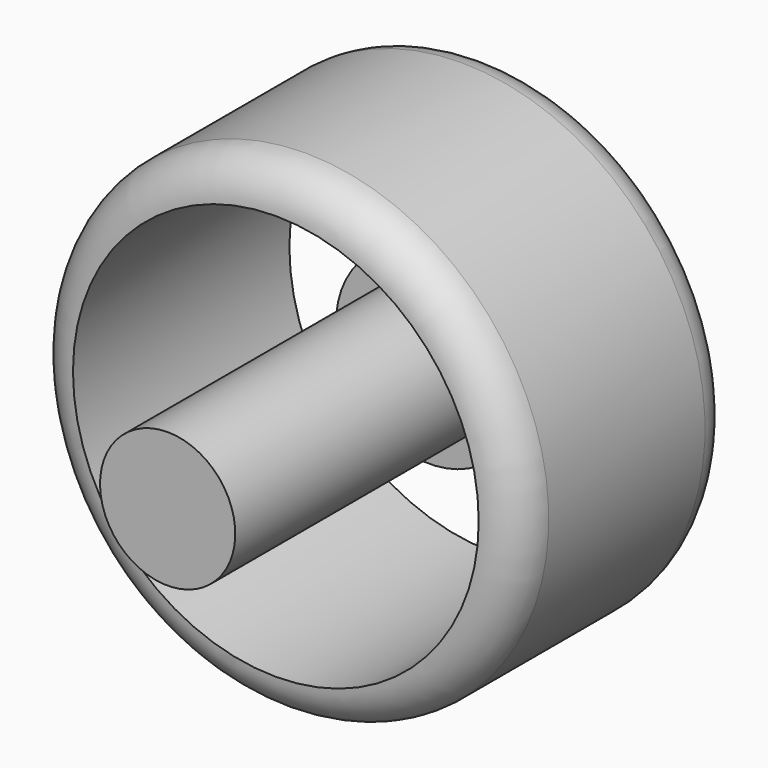
from build123d import *


with BuildPart() as f1:
    # F0 (on Right) → F1 (revolve)
    with BuildSketch(Plane.YZ):
        with BuildLine():
            Line((-5, 15), (15, 15))
            ThreePointArc((15, 15), (14.183111, 17.05164), (12.183333, 17.988352))
            Line((12.183333, 17.988352), (-2.264108, 17.988352))
            ThreePointArc((-2.264108, 17.988352), (-4.212727, 17.025793), (-5, 15))
        make_face()
        with BuildLine():
            Line((0, 0), (15, 0))
            ThreePointArc((15, 0), (13.351522, 4.512339), (9.182512, 6.899396))
            Line((9.182512, 6.899396), (9.182512, 5))
            Line((9.182512, 5), (0, 5))
            Line((0, 5), (-15, 5))
            Line((-15, 5), (-15, 0))
            Line((-15, 0), (0, 0))
        make_face()
    revolve(axis=Axis((0, -7.5, 0), (0, 1, 0)))


solid = f1.part
